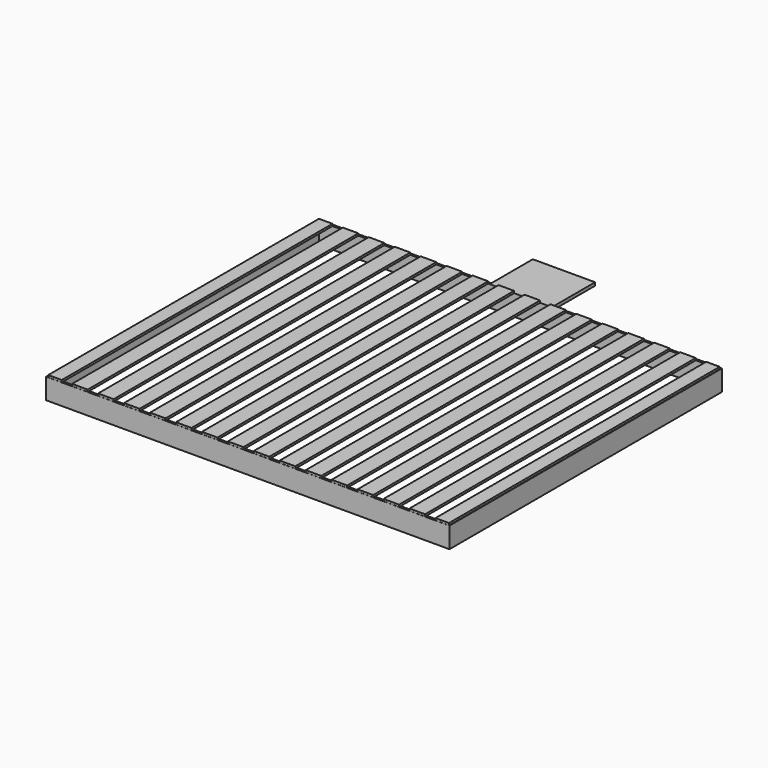
from build123d import *

# Parameters (mm, degrees)
F0_W     = 13
F0_H     = 326
F1_DEPTH = 2
F0_W_2   = 15
F2_W     = 2
F2_H     = 2
F2_H_2   = 324.104108572
F3_DEPTH = 20
F4_W     = 60
F4_H     = 50
F5_DEPTH = 3


with BuildPart() as f1:
    # F0 (on Top) → F1 (new body)
    with BuildSketch(Plane.XY):
        with Locations((8.5, -165)):
            Rectangle(F0_W, F0_H)
    extrude(amount=F1_DEPTH)


with BuildPart() as f1b:
    # F0 (on Top) → F1, piece 2 (new body)
    with BuildSketch(Plane.XY):
        with Locations((32.5, -165)):
            Rectangle(F0_W_2, F0_H)
    extrude(amount=F1_DEPTH)


with BuildPart() as f1c:
    # F0 (on Top) → F1, piece 3 (new body)
    with BuildSketch(Plane.XY):
        with Locations((57.5, -165)):
            Rectangle(F0_W_2, F0_H)
    extrude(amount=F1_DEPTH)


with BuildPart() as f1d:
    # F0 (on Top) → F1, piece 4 (new body)
    with BuildSketch(Plane.XY):
        with Locations((82.5, -165)):
            Rectangle(F0_W_2, F0_H)
    extrude(amount=F1_DEPTH)


with BuildPart() as f1e:
    # F0 (on Top) → F1, piece 5 (new body)
    with BuildSketch(Plane.XY):
        with Locations((107.5, -165)):
            Rectangle(F0_W_2, F0_H)
    extrude(amount=F1_DEPTH)


with BuildPart() as f1f:
    # F0 (on Top) → F1, piece 6 (new body)
    with BuildSketch(Plane.XY):
        with Locations((132.5, -165)):
            Rectangle(F0_W_2, F0_H)
    extrude(amount=F1_DEPTH)


with BuildPart() as f1g:
    # F0 (on Top) → F1, piece 7 (new body)
    with BuildSketch(Plane.XY):
        with Locations((157.5, -165)):
            Rectangle(F0_W_2, F0_H)
    extrude(amount=F1_DEPTH)


with BuildPart() as f1h:
    # F0 (on Top) → F1, piece 8 (new body)
    with BuildSketch(Plane.XY):
        with Locations((182.5, -165)):
            Rectangle(F0_W_2, F0_H)
    extrude(amount=F1_DEPTH)


with BuildPart() as f1i:
    # F0 (on Top) → F1, piece 9 (new body)
    with BuildSketch(Plane.XY):
        with Locations((207.5, -165)):
            Rectangle(F0_W_2, F0_H)
    extrude(amount=F1_DEPTH)


with BuildPart() as f1j:
    # F0 (on Top) → F1, piece 10 (new body)
    with BuildSketch(Plane.XY):
        with Locations((232.5, -165)):
            Rectangle(F0_W_2, F0_H)
    extrude(amount=F1_DEPTH)


with BuildPart() as f1k:
    # F0 (on Top) → F1, piece 11 (new body)
    with BuildSketch(Plane.XY):
        with Locations((257.5, -165)):
            Rectangle(F0_W_2, F0_H)
    extrude(amount=F1_DEPTH)


with BuildPart() as f1l:
    # F0 (on Top) → F1, piece 12 (new body)
    with BuildSketch(Plane.XY):
        with Locations((282.5, -165)):
            Rectangle(F0_W_2, F0_H)
    extrude(amount=F1_DEPTH)


with BuildPart() as f1m:
    # F0 (on Top) → F1, piece 13 (new body)
    with BuildSketch(Plane.XY):
        with Locations((307.5, -165)):
            Rectangle(F0_W_2, F0_H)
    extrude(amount=F1_DEPTH)


with BuildPart() as f1n:
    # F0 (on Top) → F1, piece 14 (new body)
    with BuildSketch(Plane.XY):
        with Locations((332.5, -165)):
            Rectangle(F0_W_2, F0_H)
    extrude(amount=F1_DEPTH)


with BuildPart() as f1o:
    # F0 (on Top) → F1, piece 15 (new body)
    with BuildSketch(Plane.XY):
        with Locations((357.5, -165)):
            Rectangle(F0_W_2, F0_H)
    extrude(amount=F1_DEPTH)


with BuildPart() as f1p:
    # F0 (on Top) → F1, piece 16 (new body)
    with BuildSketch(Plane.XY):
        with Locations((381.5, -165)):
            Rectangle(F0_W, F0_H)
    extrude(amount=F1_DEPTH)


with BuildPart() as f3:
    # F2 (on Top) → F3 (new body)
    with BuildSketch(Plane.XY):
        with Locations((387.5577917099, -1)):
            Rectangle(F2_W, F2_H)
        Polygon((386.5577917099, -2), (386.5577917099, 0), (0, 0), (0, -328.104108572), (386.5577917099, -328.104108572), (386.5577917099, -326.104108572), (2, -326.104108572), (2, -2), align=None)
        with Locations((387.5577917099, -164.052054286)):
            Rectangle(F2_W, F2_H_2)
        with Locations((387.5577917099, -327.104108572)):
            Rectangle(F2_W, F2_H)
    extrude(amount=-F3_DEPTH)

    # F4 (on Top) → F5 (join)
    with BuildSketch(Plane.XY):
        with Locations((196.4089343843, 25)):
            Rectangle(F4_W, F4_H)
    extrude(amount=-F5_DEPTH)


solid = Compound([f1.part, f1b.part, f1c.part, f1d.part, f1e.part, f1f.part, f1g.part, f1h.part, f1i.part, f1j.part, f1k.part, f1l.part, f1m.part, f1n.part, f1o.part, f1p.part, f3.part])
